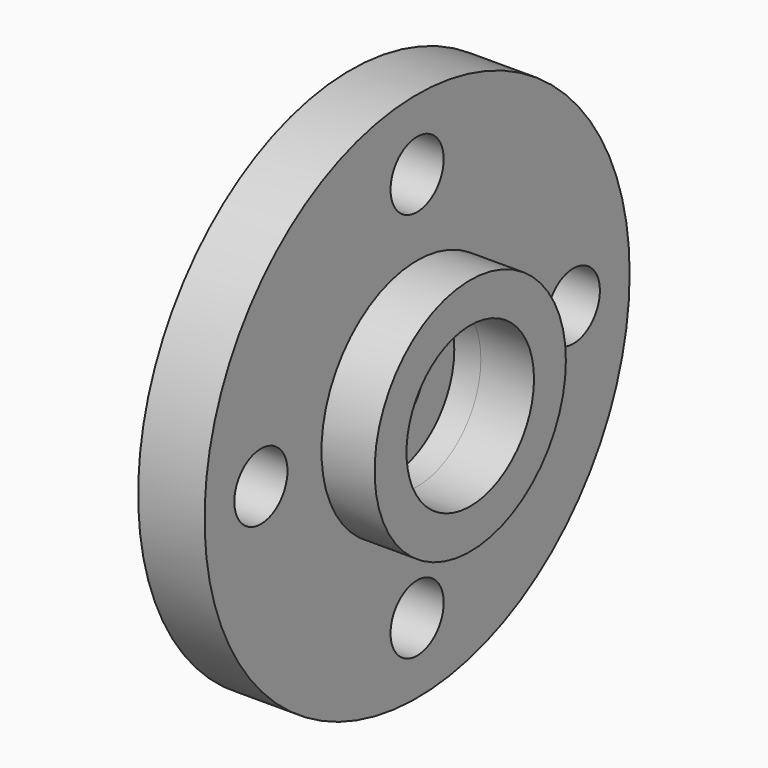
from build123d import *

# Parameters (mm, degrees)
SKETCH002_R   = 10
SKETCH002_R_2 = 1.55
SKETCH002_R_3 = 1.25
PAD002_DEPTH  = 2.5
SKETCH003_R   = 4.5
SKETCH003_R_2 = 3
PAD003_DEPTH  = 2
SKETCH004_R   = 3
POCKET_DEPTH  = 1


with BuildPart() as part:
    # Sketch002 → Pad002 (new body)
    with BuildSketch(Plane.YZ):
        Circle(SKETCH002_R)
        Circle(SKETCH002_R_2, mode=Mode.SUBTRACT)
        with Locations((-7.35, 0)):
            Circle(SKETCH002_R_3, mode=Mode.SUBTRACT)
        with Locations((0, -7.35)):
            Circle(SKETCH002_R_3, mode=Mode.SUBTRACT)
        with Locations((7.35, 0)):
            Circle(SKETCH002_R_3, mode=Mode.SUBTRACT)
        with Locations((0, 7.35)):
            Circle(SKETCH002_R_3, mode=Mode.SUBTRACT)
    extrude(amount=PAD002_DEPTH)

    # Sketch003 (on Face8 of Pad002) → Pad003 (join)
    with BuildSketch(Plane.YZ.offset(2.5)):
        Circle(SKETCH003_R)
        Circle(SKETCH003_R_2, mode=Mode.SUBTRACT)
    extrude(amount=PAD003_DEPTH)

    # Sketch004 (on Face10 of Pad003) → Pocket (cut)
    with BuildSketch(Plane.YZ.offset(2.5)):
        Circle(SKETCH004_R)
    extrude(amount=-POCKET_DEPTH, mode=Mode.SUBTRACT)


solid = part.part
